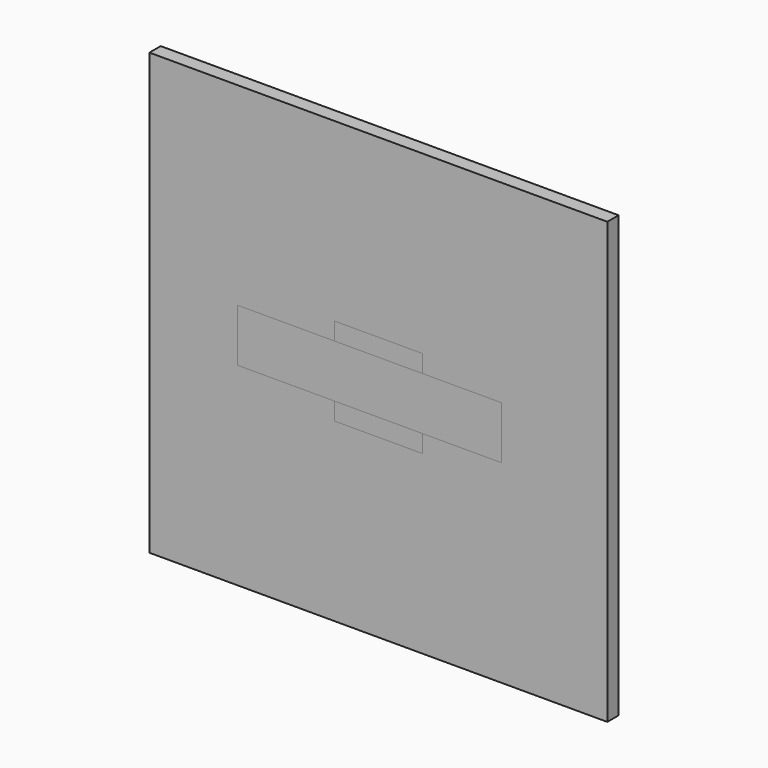
from build123d import *

# Parameters (mm, degrees)
F0_W     = 260
F0_H     = 250
F1_DEPTH = 8
F2_W     = 30
F2_H     = 30
F3_DEPTH = 4
F4_W     = 50
F4_H     = 50
F5_DEPTH = 8
F6_W     = 150
F6_H     = 30
F7_DEPTH = 8


with BuildPart() as f1:
    # F0 (on Front) → F1 (new body)
    with BuildSketch(Plane.XZ):
        Rectangle(F0_W, F0_H)
    extrude(amount=F1_DEPTH)


with BuildPart() as f3:
    # F2 (on Front) → F3 (new body)
    with BuildSketch(Plane.XZ):
        Rectangle(F2_W, F2_H)
    extrude(amount=F3_DEPTH)


with BuildPart() as f5:
    # F4 (on Front) → F5 (new body)
    with BuildSketch(Plane.XZ):
        Rectangle(F4_W, F4_H)
    extrude(amount=F5_DEPTH)


with BuildPart() as f7:
    # F6 (on Front) → F7 (new body)
    with BuildSketch(Plane.XZ):
        with Locations((-5, 0)):
            Rectangle(F6_W, F6_H)
    extrude(amount=F7_DEPTH)


solid = Compound([f1.part, f3.part, f5.part, f7.part])
